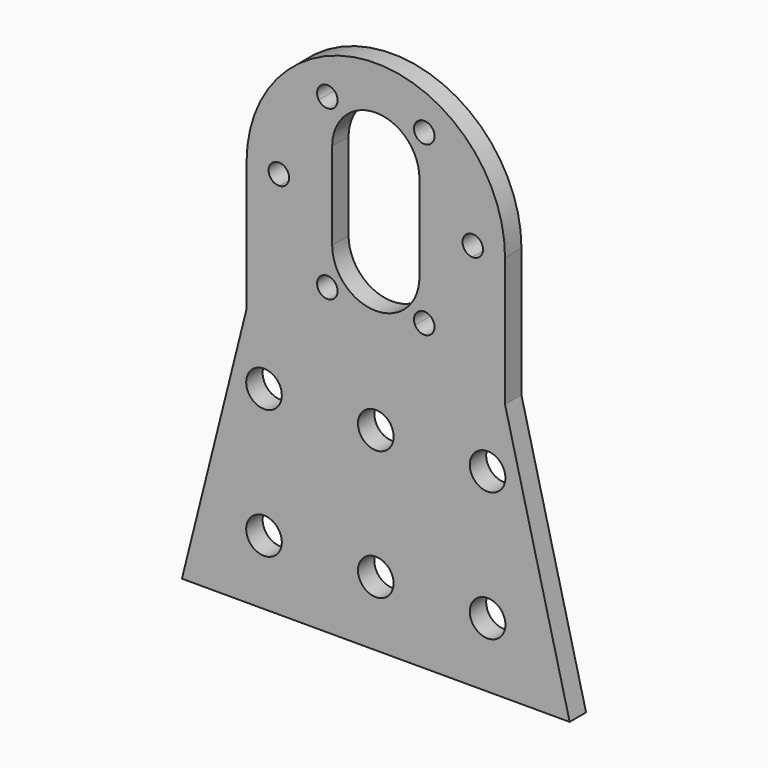
from build123d import *

# Parameters (mm, degrees)
F0_R     = 2.7559
F1_DEPTH = 3.175


with BuildPart() as f1:
    # F0 (on Front) → F1 (new body)
    with BuildSketch(Plane.XZ):
        with BuildLine():
            Line((20, -20), (20, 0))
            ThreePointArc((20, 0), (0, 20), (-20, 0))
            Line((-20, 0), (-20, -20))
            Line((-20, -20), (-30, -60))
            Line((-30, -60), (30, -60))
            Line((30, -60), (20, -20))
        make_face()
        with Locations((-17.3, -49.9999946)):
            Circle(F0_R, mode=Mode.SUBTRACT)
        with Locations((-17.3, -29.9999946)):
            Circle(F0_R, mode=Mode.SUBTRACT)
        with Locations((0, -49.9999946)):
            Circle(F0_R, mode=Mode.SUBTRACT)
        with Locations((17.3, -49.9999946)):
            Circle(F0_R, mode=Mode.SUBTRACT)
        with Locations((0, -29.9999946)):
            Circle(F0_R, mode=Mode.SUBTRACT)
        with Locations((17.3, -29.9999946)):
            Circle(F0_R, mode=Mode.SUBTRACT)
        with BuildLine():
            ThreePointArc((8.8308865142, 12.1249925103), (12.9903810568, 7.5), (14.9159947917, 1.5852758041))
            ThreePointArc((14.9159947917, 1.5852758041), (16.0924280255, 1.151849495), (16.5875, 0))
            ThreePointArc((16.5875, 0), (16.0924280255, -1.151849495), (14.9159947917, -1.5852758041))
            ThreePointArc((14.9159947917, -1.5852758041), (12.9903810568, -7.5), (8.8308865142, -12.1249925103))
            ThreePointArc((8.8308865142, -12.1249925103), (9.0219951694, -12.5390641455), (9.0875, -12.9903810568))
            ThreePointArc((9.0875, -12.9903810568), (7.8701456744, -14.5341259935), (6.0851082775, -13.7102683143))
            ThreePointArc((6.0851082775, -13.7102683143), (0, -15), (-6.0851082775, -13.7102683143))
            ThreePointArc((-6.0851082775, -13.7102683143), (-8.29375, -14.3651963853), (-8.8308865142, -12.1249925103))
            ThreePointArc((-8.8308865142, -12.1249925103), (-12.9903810568, -7.5), (-14.9159947917, -1.5852758041))
            ThreePointArc((-14.9159947917, -1.5852758041), (-16.5875, 0), (-14.9159947917, 1.5852758041))
            ThreePointArc((-14.9159947917, 1.5852758041), (-12.9903810568, 7.5), (-8.8308865142, 12.1249925103))
            ThreePointArc((-8.8308865142, 12.1249925103), (-8.29375, 14.3651963853), (-6.0851082775, 13.7102683143))
            ThreePointArc((-6.0851082775, 13.7102683143), (0, 15), (6.0851082775, 13.7102683143))
            ThreePointArc((6.0851082775, 13.7102683143), (7.8701456744, 14.5341259935), (9.0875, 12.9903810568))
            ThreePointArc((9.0875, 12.9903810568), (9.0219951694, 12.5390641455), (8.8308865142, 12.1249925103))
        make_face(mode=Mode.SUBTRACT)
        with BuildLine():
            ThreePointArc((14.9159947917, -1.5852758041), (13.4125, 0), (14.9159947917, 1.5852758041))
            ThreePointArc((14.9159947917, 1.5852758041), (12.9903810568, 7.5), (8.8308865142, 12.1249925103))
            ThreePointArc((8.8308865142, 12.1249925103), (6.70625, 11.6155657283), (6.0851082775, 13.7102683143))
            ThreePointArc((6.0851082775, 13.7102683143), (0, 15), (-6.0851082775, 13.7102683143))
            ThreePointArc((-6.0851082775, 13.7102683143), (-5.9562550633, 13.3605267312), (-5.9125, 12.9903810568))
            ThreePointArc((-5.9125, 12.9903810568), (-7.0486830887, 11.4683858874), (-8.8308865142, 12.1249925103))
            ThreePointArc((-8.8308865142, 12.1249925103), (-12.9903810568, 7.5), (-14.9159947917, 1.5852758041))
            ThreePointArc((-14.9159947917, 1.5852758041), (-13.848150505, 1.0924280255), (-13.4125, 0))
            ThreePointArc((-13.4125, 0), (-13.848150505, -1.0924280255), (-14.9159947917, -1.5852758041))
            ThreePointArc((-14.9159947917, -1.5852758041), (-12.9903810568, -7.5), (-8.8308865142, -12.1249925103))
            ThreePointArc((-8.8308865142, -12.1249925103), (-7.0486830887, -11.4683858874), (-5.9125, -12.9903810568))
            ThreePointArc((-5.9125, -12.9903810568), (-5.9562550633, -13.3605267312), (-6.0851082775, -13.7102683143))
            ThreePointArc((-6.0851082775, -13.7102683143), (0, -15), (6.0851082775, -13.7102683143))
            ThreePointArc((6.0851082775, -13.7102683143), (6.70625, -11.6155657283), (8.8308865142, -12.1249925103))
            ThreePointArc((8.8308865142, -12.1249925103), (12.9903810568, -7.5), (14.9159947917, -1.5852758041))
        make_face()
        with BuildLine():
            ThreePointArc((-6.75, 6.5), (0, 13.25), (6.75, 6.5))
            Line((6.75, 6.5), (6.75, -7))
            ThreePointArc((6.75, -7), (0, -13.75), (-6.75, -7))
            Line((-6.75, -7), (-6.75, 6.5))
        make_face(mode=Mode.SUBTRACT)
    extrude(amount=-F1_DEPTH)


solid = f1.part
